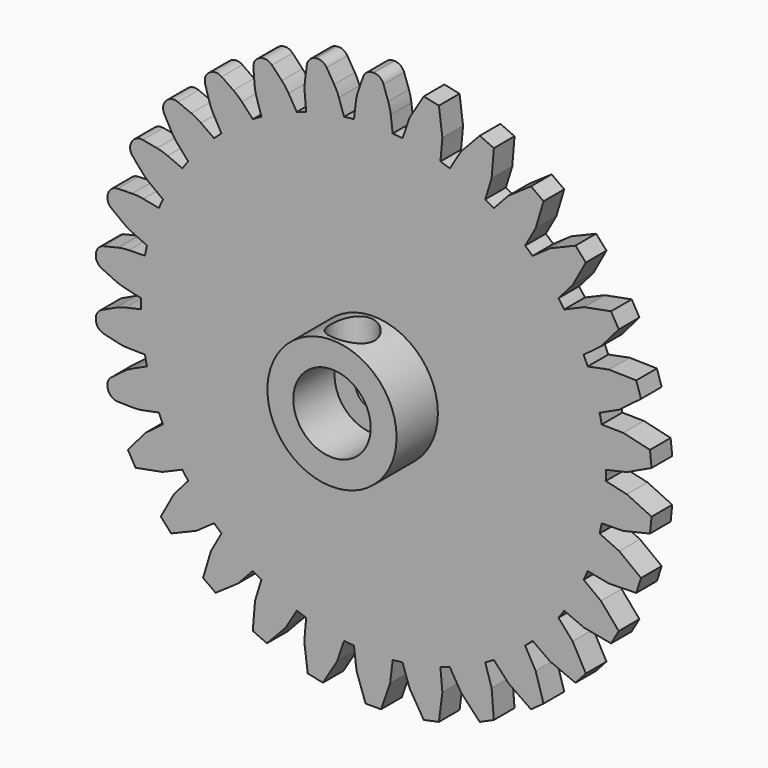
from build123d import *

# Parameters (mm, degrees)
F0_R     = 1.778
F1_DEPTH = 2.54
F2_R     = 6.35
F2_R_2   = 3.81
F3_DEPTH = 5.08
F4_R     = 5.08
F5_R     = 1.016
F6_R     = 2.159
F7_DEPTH = 25.4


with BuildPart() as f1:
    # F0 (on Front) → F1 (new body)
    with BuildSketch(Plane.XZ):
        with BuildLine():
            ThreePointArc((22.85482, -0.486645), (22.858705, -0.243336), (22.86, 0))
            ThreePointArc((22.86, 0), (22.858705, 0.243336), (22.85482, 0.486645))
            ThreePointArc((22.85482, 0.486645), (22.734771, 2.389521), (22.456566, 4.275773))
            ThreePointArc((22.456566, 4.275773), (22.360454, 4.752861), (22.254208, 5.227795))
            ThreePointArc((22.254208, 5.227795), (21.741152, 7.064128), (21.076853, 8.85132))
            ThreePointArc((21.076853, 8.85132), (20.883649, 9.298), (20.68098, 9.740465))
            ThreePointArc((20.68098, 9.740465), (19.797341, 11.43), (18.77598, 13.040022))
            ThreePointArc((18.77598, 13.040022), (18.494128, 13.436771), (18.203895, 13.82743))
            ThreePointArc((18.203895, 13.82743), (16.988291, 15.296326), (15.654507, 16.658812))
            ThreePointArc((15.654507, 16.658812), (15.296326, 16.988291), (14.931212, 17.31007))
            ThreePointArc((14.931212, 17.31007), (13.436771, 18.494128), (11.848857, 19.549532))
            ThreePointArc((11.848857, 19.549532), (11.43, 19.797341), (11.005963, 20.036177))
            ThreePointArc((11.005963, 20.036177), (9.298, 20.883649), (7.525355, 21.585843))
            ThreePointArc((7.525355, 21.585843), (7.064128, 21.741152), (6.599701, 21.886607))
            ThreePointArc((6.599701, 21.886607), (4.752861, 22.360454), (2.872958, 22.67875))
            ThreePointArc((2.872958, 22.67875), (2.389521, 22.734771), (1.905, 22.780487))
            ThreePointArc((1.905, 22.780487), (0, 22.86), (-1.905, 22.780487))
            ThreePointArc((-1.905, 22.780487), (-2.389521, 22.734771), (-2.872958, 22.67875))
            ThreePointArc((-2.872958, 22.67875), (-4.752861, 22.360454), (-6.599701, 21.886607))
            ThreePointArc((-6.599701, 21.886607), (-7.064128, 21.741152), (-7.525355, 21.585843))
            ThreePointArc((-7.525355, 21.585843), (-9.298, 20.883649), (-11.005963, 20.036177))
            ThreePointArc((-11.005963, 20.036177), (-11.43, 19.797341), (-11.848857, 19.549532))
            ThreePointArc((-11.848857, 19.549532), (-13.436771, 18.494128), (-14.931212, 17.31007))
            ThreePointArc((-14.931212, 17.31007), (-15.296326, 16.988291), (-15.654507, 16.658812))
            ThreePointArc((-15.654507, 16.658812), (-16.988291, 15.296326), (-18.203895, 13.82743))
            ThreePointArc((-18.203895, 13.82743), (-18.494128, 13.436771), (-18.77598, 13.040022))
            ThreePointArc((-18.77598, 13.040022), (-19.797341, 11.43), (-20.68098, 9.740465))
            ThreePointArc((-20.68098, 9.740465), (-20.883649, 9.298), (-21.076853, 8.85132))
            ThreePointArc((-21.076853, 8.85132), (-21.741152, 7.064128), (-22.254208, 5.227795))
            ThreePointArc((-22.254208, 5.227795), (-22.360454, 4.752861), (-22.456566, 4.275773))
            ThreePointArc((-22.456566, 4.275773), (-22.734771, 2.389521), (-22.85482, 0.486645))
            ThreePointArc((-22.85482, 0.486645), (-22.86, 0), (-22.85482, -0.486645))
            ThreePointArc((-22.85482, -0.486645), (-22.734771, -2.389521), (-22.456566, -4.275773))
            ThreePointArc((-22.456566, -4.275773), (-22.360454, -4.752861), (-22.254208, -5.227795))
            ThreePointArc((-22.254208, -5.227795), (-21.741152, -7.064128), (-21.076853, -8.85132))
            ThreePointArc((-21.076853, -8.85132), (-20.883649, -9.298), (-20.68098, -9.740465))
            ThreePointArc((-20.68098, -9.740465), (-19.797341, -11.43), (-18.77598, -13.040022))
            ThreePointArc((-18.77598, -13.040022), (-18.494128, -13.436771), (-18.203895, -13.82743))
            ThreePointArc((-18.203895, -13.82743), (-16.988291, -15.296326), (-15.654507, -16.658812))
            ThreePointArc((-15.654507, -16.658812), (-15.296326, -16.988291), (-14.931212, -17.31007))
            ThreePointArc((-14.931212, -17.31007), (-13.436771, -18.494128), (-11.848857, -19.549532))
            ThreePointArc((-11.848857, -19.549532), (-11.43, -19.797341), (-11.005963, -20.036177))
            ThreePointArc((-11.005963, -20.036177), (-9.298, -20.883649), (-7.525355, -21.585843))
            ThreePointArc((-7.525355, -21.585843), (-7.064128, -21.741152), (-6.599701, -21.886607))
            ThreePointArc((-6.599701, -21.886607), (-4.752861, -22.360454), (-2.872958, -22.67875))
            ThreePointArc((-2.872958, -22.67875), (-2.389521, -22.734771), (-1.905, -22.780487))
            ThreePointArc((-1.905, -22.780487), (0, -22.86), (1.905, -22.780487))
            ThreePointArc((1.905, -22.780487), (2.389521, -22.734771), (2.872958, -22.67875))
            ThreePointArc((2.872958, -22.67875), (4.752861, -22.360454), (6.599701, -21.886607))
            ThreePointArc((6.599701, -21.886607), (7.064128, -21.741152), (7.525355, -21.585843))
            ThreePointArc((7.525355, -21.585843), (9.298, -20.883649), (11.005963, -20.036177))
            ThreePointArc((11.005963, -20.036177), (11.43, -19.797341), (11.848857, -19.549532))
            ThreePointArc((11.848857, -19.549532), (13.436771, -18.494128), (14.931212, -17.31007))
            ThreePointArc((14.931212, -17.31007), (15.296326, -16.988291), (15.654507, -16.658812))
            ThreePointArc((15.654507, -16.658812), (16.988291, -15.296326), (18.203895, -13.82743))
            ThreePointArc((18.203895, -13.82743), (18.494128, -13.436771), (18.77598, -13.040022))
            ThreePointArc((18.77598, -13.040022), (19.797341, -11.43), (20.68098, -9.740465))
            ThreePointArc((20.68098, -9.740465), (20.883649, -9.298), (21.076853, -8.85132))
            ThreePointArc((21.076853, -8.85132), (21.741152, -7.064128), (22.254208, -5.227795))
            ThreePointArc((22.254208, -5.227795), (22.360454, -4.752861), (22.456566, -4.275773))
            ThreePointArc((22.456566, -4.275773), (22.734771, -2.389521), (22.85482, -0.486645))
        make_face()
        Circle(F0_R, mode=Mode.SUBTRACT)
        with BuildLine():
            ThreePointArc((22.456566, 4.275773), (22.734771, 2.389521), (22.85482, 0.486645))
            Line((22.85482, 0.486645), (24.928216, 0.959967))
            Line((24.928216, 0.959967), (27.361375, 2.109599))
            Line((27.361375, 2.109599), (27.202074, 3.62525))
            Line((27.202074, 3.62525), (24.583063, 4.243878))
            Line((24.583063, 4.243878), (22.456566, 4.275773))
        make_face()
        with BuildLine():
            Line((24.928216, -0.959967), (22.85482, -0.486645))
            ThreePointArc((22.85482, -0.486645), (22.734771, -2.389521), (22.456566, -4.275773))
            Line((22.456566, -4.275773), (24.583063, -4.243878))
            Line((24.583063, -4.243878), (27.202074, -3.62525))
            Line((27.202074, -3.62525), (27.361375, -2.109599))
            Line((27.361375, -2.109599), (24.928216, -0.959967))
        make_face()
        with BuildLine():
            ThreePointArc((21.076853, 8.85132), (21.741152, 7.064128), (22.254208, 5.227795))
            Line((22.254208, 5.227795), (24.183886, 6.121857))
            Line((24.183886, 6.121857), (26.324853, 7.752249))
            Line((26.324853, 7.752249), (25.853911, 9.201659))
            Line((25.853911, 9.201659), (23.163512, 9.262245))
            Line((23.163512, 9.262245), (21.076853, 8.85132))
        make_face()
        with BuildLine():
            Line((24.183886, -6.121857), (22.254208, -5.227795))
            ThreePointArc((22.254208, -5.227795), (21.741152, -7.064128), (21.076853, -8.85132))
            Line((21.076853, -8.85132), (23.163512, -9.262245))
            Line((23.163512, -9.262245), (25.853911, -9.201659))
            Line((25.853911, -9.201659), (26.324853, -7.752249))
            Line((26.324853, -7.752249), (24.183886, -6.121857))
        make_face()
        with BuildLine():
            ThreePointArc((18.77598, 13.040022), (19.797341, 11.43), (20.68098, 9.740465))
            Line((20.68098, 9.740465), (22.382604, 11.016192))
            Line((22.382604, 11.016192), (24.137809, 13.056089))
            Line((24.137809, 13.056089), (23.375809, 14.375911))
            Line((23.375809, 14.375911), (20.731604, 13.875808))
            Line((20.731604, 13.875808), (18.77598, 13.040022))
        make_face()
        with BuildLine():
            Line((22.382604, -11.016192), (20.68098, -9.740465))
            ThreePointArc((20.68098, -9.740465), (19.797341, -11.43), (18.77598, -13.040022))
            Line((18.77598, -13.040022), (20.731604, -13.875808))
            Line((20.731604, -13.875808), (23.375809, -14.375911))
            Line((23.375809, -14.375911), (24.137809, -13.056089))
            Line((24.137809, -13.056089), (22.382604, -11.016192))
        make_face()
        with BuildLine():
            ThreePointArc((15.654507, 16.658812), (16.988291, 15.296326), (18.203895, 13.82743))
            Line((18.203895, 13.82743), (19.603096, 15.429067))
            Line((19.603096, 15.429067), (20.895826, 17.789314))
            Line((20.895826, 17.789314), (19.876071, 18.921867))
            Line((19.876071, 18.921867), (17.393626, 17.882931))
            Line((17.393626, 17.882931), (15.654507, 16.658812))
        make_face()
        with BuildLine():
            Line((19.603096, -15.429067), (18.203895, -13.82743))
            ThreePointArc((18.203895, -13.82743), (16.988291, -15.296326), (15.654507, -16.658812))
            Line((15.654507, -16.658812), (17.393626, -17.882931))
            Line((17.393626, -17.882931), (19.876071, -18.921867))
            Line((19.876071, -18.921867), (20.895826, -17.789314))
            Line((20.895826, -17.789314), (19.603096, -15.429067))
        make_face()
        with BuildLine():
            ThreePointArc((11.848857, 19.549532), (13.436771, 18.494128), (14.931212, 17.31007))
            Line((14.931212, 17.31007), (15.966838, 19.167618))
            Line((15.966838, 19.167618), (16.740596, 21.745062))
            Line((16.740596, 21.745062), (15.507654, 22.640847))
            Line((15.507654, 22.640847), (13.295463, 21.108484))
            Line((13.295463, 21.108484), (11.848857, 19.549532))
        make_face()
        with BuildLine():
            Line((15.966838, -19.167618), (14.931212, -17.31007))
            ThreePointArc((14.931212, -17.31007), (13.436771, -18.494128), (11.848857, -19.549532))
            Line((11.848857, -19.549532), (13.295463, -21.108484))
            Line((13.295463, -21.108484), (15.507654, -22.640847))
            Line((15.507654, -22.640847), (16.740596, -21.745062))
            Line((16.740596, -21.745062), (15.966838, -19.167618))
        make_face()
        with BuildLine():
            ThreePointArc((7.525355, 21.585843), (9.298, 20.883649), (11.005963, 20.036177))
            Line((11.005963, 20.036177), (11.632752, 22.068451))
            Line((11.632752, 22.068451), (11.853721, 24.750446))
            Line((11.853721, 24.750446), (10.461478, 25.370312))
            Line((10.461478, 25.370312), (8.616225, 23.411496))
            Line((8.616225, 23.411496), (7.525355, 21.585843))
        make_face()
        with BuildLine():
            Line((11.632752, -22.068451), (11.005963, -20.036177))
            ThreePointArc((11.005963, -20.036177), (9.298, -20.883649), (7.525355, -21.585843))
            Line((7.525355, -21.585843), (8.616225, -23.411496))
            Line((8.616225, -23.411496), (10.461478, -25.370312))
            Line((10.461478, -25.370312), (11.853721, -24.750446))
            Line((11.853721, -24.750446), (11.632752, -22.068451))
        make_face()
        with BuildLine():
            ThreePointArc((2.872958, 22.67875), (4.752861, 22.360454), (6.599701, 21.886607))
            Line((6.599701, 21.886607), (6.790259, 24.004788))
            Line((6.790259, 24.004788), (6.448782, 26.674116))
            Line((6.448782, 26.674116), (4.958085, 26.990974))
            Line((4.958085, 26.990974), (3.560416, 24.691312))
            Line((3.560416, 24.691312), (2.872958, 22.67875))
        make_face()
        with BuildLine():
            Line((6.790259, -24.004788), (6.599701, -21.886607))
            ThreePointArc((6.599701, -21.886607), (4.752861, -22.360454), (2.872958, -22.67875))
            Line((2.872958, -22.67875), (3.560416, -24.691312))
            Line((3.560416, -24.691312), (4.958085, -26.990974))
            Line((4.958085, -26.990974), (6.448782, -26.674116))
            Line((6.448782, -26.674116), (6.790259, -24.004788))
        make_face()
        with BuildLine():
            ThreePointArc((-1.905, 22.780487), (0, 22.86), (1.905, 22.780487))
            Line((1.905, 22.780487), (1.651, 24.892))
            Line((1.651, 24.892), (0.762, 27.432))
            Line((0.762, 27.432), (-0.762, 27.432))
            Line((-0.762, 27.432), (-1.651, 24.892))
            Line((-1.651, 24.892), (-1.905, 22.780487))
        make_face()
        with BuildLine():
            Line((1.651, -24.892), (1.905, -22.780487))
            ThreePointArc((1.905, -22.780487), (0, -22.86), (-1.905, -22.780487))
            Line((-1.905, -22.780487), (-1.651, -24.892))
            Line((-1.651, -24.892), (-0.762, -27.432))
            Line((-0.762, -27.432), (0.762, -27.432))
            Line((0.762, -27.432), (1.651, -24.892))
        make_face()
        with BuildLine():
            ThreePointArc((-6.599701, 21.886607), (-4.752861, 22.360454), (-2.872958, 22.67875))
            Line((-2.872958, 22.67875), (-3.560416, 24.691312))
            Line((-3.560416, 24.691312), (-4.958085, 26.990974))
            Line((-4.958085, 26.990974), (-6.448782, 26.674116))
            Line((-6.448782, 26.674116), (-6.790259, 24.004788))
            Line((-6.790259, 24.004788), (-6.599701, 21.886607))
        make_face()
        with BuildLine():
            Line((-3.560416, -24.691312), (-2.872958, -22.67875))
            ThreePointArc((-2.872958, -22.67875), (-4.752861, -22.360454), (-6.599701, -21.886607))
            Line((-6.599701, -21.886607), (-6.790259, -24.004788))
            Line((-6.790259, -24.004788), (-6.448782, -26.674116))
            Line((-6.448782, -26.674116), (-4.958085, -26.990974))
            Line((-4.958085, -26.990974), (-3.560416, -24.691312))
        make_face()
        with BuildLine():
            ThreePointArc((-11.005963, 20.036177), (-9.298, 20.883649), (-7.525355, 21.585843))
            Line((-7.525355, 21.585843), (-8.616225, 23.411496))
            Line((-8.616225, 23.411496), (-10.461478, 25.370312))
            Line((-10.461478, 25.370312), (-11.853721, 24.750446))
            Line((-11.853721, 24.750446), (-11.632752, 22.068451))
            Line((-11.632752, 22.068451), (-11.005963, 20.036177))
        make_face()
        with BuildLine():
            Line((-8.616225, -23.411496), (-7.525355, -21.585843))
            ThreePointArc((-7.525355, -21.585843), (-9.298, -20.883649), (-11.005963, -20.036177))
            Line((-11.005963, -20.036177), (-11.632752, -22.068451))
            Line((-11.632752, -22.068451), (-11.853721, -24.750446))
            Line((-11.853721, -24.750446), (-10.461478, -25.370312))
            Line((-10.461478, -25.370312), (-8.616225, -23.411496))
        make_face()
        with BuildLine():
            ThreePointArc((-14.931212, 17.31007), (-13.436771, 18.494128), (-11.848857, 19.549532))
            Line((-11.848857, 19.549532), (-13.295463, 21.108484))
            Line((-13.295463, 21.108484), (-15.507654, 22.640847))
            Line((-15.507654, 22.640847), (-16.740596, 21.745062))
            Line((-16.740596, 21.745062), (-15.966838, 19.167618))
            Line((-15.966838, 19.167618), (-14.931212, 17.31007))
        make_face()
        with BuildLine():
            Line((-13.295463, -21.108484), (-11.848857, -19.549532))
            ThreePointArc((-11.848857, -19.549532), (-13.436771, -18.494128), (-14.931212, -17.31007))
            Line((-14.931212, -17.31007), (-15.966838, -19.167618))
            Line((-15.966838, -19.167618), (-16.740596, -21.745062))
            Line((-16.740596, -21.745062), (-15.507654, -22.640847))
            Line((-15.507654, -22.640847), (-13.295463, -21.108484))
        make_face()
        with BuildLine():
            ThreePointArc((-18.203895, 13.82743), (-16.988291, 15.296326), (-15.654507, 16.658812))
            Line((-15.654507, 16.658812), (-17.393626, 17.882931))
            Line((-17.393626, 17.882931), (-19.876071, 18.921867))
            Line((-19.876071, 18.921867), (-20.895826, 17.789314))
            Line((-20.895826, 17.789314), (-19.603096, 15.429067))
            Line((-19.603096, 15.429067), (-18.203895, 13.82743))
        make_face()
        with BuildLine():
            Line((-17.393626, -17.882931), (-15.654507, -16.658812))
            ThreePointArc((-15.654507, -16.658812), (-16.988291, -15.296326), (-18.203895, -13.82743))
            Line((-18.203895, -13.82743), (-19.603096, -15.429067))
            Line((-19.603096, -15.429067), (-20.895826, -17.789314))
            Line((-20.895826, -17.789314), (-19.876071, -18.921867))
            Line((-19.876071, -18.921867), (-17.393626, -17.882931))
        make_face()
        with BuildLine():
            ThreePointArc((-20.68098, 9.740465), (-19.797341, 11.43), (-18.77598, 13.040022))
            Line((-18.77598, 13.040022), (-20.731604, 13.875808))
            Line((-20.731604, 13.875808), (-23.375809, 14.375911))
            Line((-23.375809, 14.375911), (-24.137809, 13.056089))
            Line((-24.137809, 13.056089), (-22.382604, 11.016192))
            Line((-22.382604, 11.016192), (-20.68098, 9.740465))
        make_face()
        with BuildLine():
            Line((-20.731604, -13.875808), (-18.77598, -13.040022))
            ThreePointArc((-18.77598, -13.040022), (-19.797341, -11.43), (-20.68098, -9.740465))
            Line((-20.68098, -9.740465), (-22.382604, -11.016192))
            Line((-22.382604, -11.016192), (-24.137809, -13.056089))
            Line((-24.137809, -13.056089), (-23.375809, -14.375911))
            Line((-23.375809, -14.375911), (-20.731604, -13.875808))
        make_face()
        with BuildLine():
            ThreePointArc((-22.254208, 5.227795), (-21.741152, 7.064128), (-21.076853, 8.85132))
            Line((-21.076853, 8.85132), (-23.163512, 9.262245))
            Line((-23.163512, 9.262245), (-25.853911, 9.201659))
            Line((-25.853911, 9.201659), (-26.324853, 7.752249))
            Line((-26.324853, 7.752249), (-24.183886, 6.121857))
            Line((-24.183886, 6.121857), (-22.254208, 5.227795))
        make_face()
        with BuildLine():
            Line((-23.163512, -9.262245), (-21.076853, -8.85132))
            ThreePointArc((-21.076853, -8.85132), (-21.741152, -7.064128), (-22.254208, -5.227795))
            Line((-22.254208, -5.227795), (-24.183886, -6.121857))
            Line((-24.183886, -6.121857), (-26.324853, -7.752249))
            Line((-26.324853, -7.752249), (-25.853911, -9.201659))
            Line((-25.853911, -9.201659), (-23.163512, -9.262245))
        make_face()
        with BuildLine():
            ThreePointArc((-22.85482, 0.486645), (-22.734771, 2.389521), (-22.456566, 4.275773))
            Line((-22.456566, 4.275773), (-24.583063, 4.243878))
            Line((-24.583063, 4.243878), (-27.202074, 3.62525))
            Line((-27.202074, 3.62525), (-27.361375, 2.109599))
            Line((-27.361375, 2.109599), (-24.928216, 0.959967))
            Line((-24.928216, 0.959967), (-22.85482, 0.486645))
        make_face()
        with BuildLine():
            Line((-24.583063, -4.243878), (-22.456566, -4.275773))
            ThreePointArc((-22.456566, -4.275773), (-22.734771, -2.389521), (-22.85482, -0.486645))
            Line((-22.85482, -0.486645), (-24.928216, -0.959967))
            Line((-24.928216, -0.959967), (-27.361375, -2.109599))
            Line((-27.361375, -2.109599), (-27.202074, -3.62525))
            Line((-27.202074, -3.62525), (-24.583063, -4.243878))
        make_face()
    extrude(amount=F1_DEPTH)

    # F2 (on face) → F3 (join)
    with BuildSketch(Plane.XZ.offset(2.54)):
        Circle(F2_R)
        Circle(F2_R_2, mode=Mode.SUBTRACT)
    extrude(amount=F3_DEPTH)

    # F4
    f4_edges = [f1.edges().sort_by_distance(p)[0] for p in [
        (-24.183886, -1.27, -6.121857),
        (-23.163512, -1.27, -9.262245),
        (1.651, -1.27, 24.892),
        (-3.560416, -1.27, 24.691312),
        (-8.616225, -1.27, 23.411496),
        (-13.295463, -1.27, 21.108484),
        (-17.393626, -1.27, 17.882931),
        (-20.731604, -1.27, 13.875808),
        (-23.163512, -1.27, 9.262245),
        (-24.583063, -1.27, 4.243878),
        (-24.928216, -1.27, -0.959967),
        (-24.928216, -1.27, 0.959967),
        (-24.583063, -1.27, -4.243878),
        (-1.651, -1.27, 24.892),
        (-6.790259, -1.27, 24.004788),
        (-11.632752, -1.27, 22.068451),
        (-15.966838, -1.27, 19.167618),
        (-19.603096, -1.27, 15.429067),
        (-22.382604, -1.27, 11.016192),
        (-24.183886, -1.27, 6.121857),
    ]]
    fillet(f4_edges, radius=F4_R)

    # F5
    f5_edges = [f1.edges().sort_by_distance(p)[0] for p in [
        (0.762, -1.27, 27.432),
        (-0.762, -1.27, 27.432),
        (-4.958085, -1.27, 26.990974),
        (-6.448782, -1.27, 26.674116),
        (-10.461478, -1.27, 25.370312),
        (-25.853911, -1.27, -9.201659),
        (-26.324853, -1.27, -7.752249),
        (-27.202074, -1.27, -3.62525),
        (-11.853721, -1.27, 24.750446),
        (-15.507654, -1.27, 22.640847),
        (-16.740596, -1.27, 21.745062),
        (-19.876071, -1.27, 18.921867),
        (-20.895826, -1.27, 17.789314),
        (-23.375809, -1.27, 14.375911),
        (-24.137809, -1.27, 13.056089),
        (-25.853911, -1.27, 9.201659),
        (-26.324853, -1.27, 7.752249),
        (-27.361375, -1.27, 2.109599),
        (-27.202074, -1.27, 3.62525),
        (-27.361375, -1.27, -2.109599),
    ]]
    fillet(f5_edges, radius=F5_R)

    # F6 (on Top) → F7 (cut)
    with BuildSketch(Plane.XY):
        with Locations((0, -5.08)):
            Circle(F6_R)
    extrude(amount=F7_DEPTH, mode=Mode.SUBTRACT)


solid = f1.part
